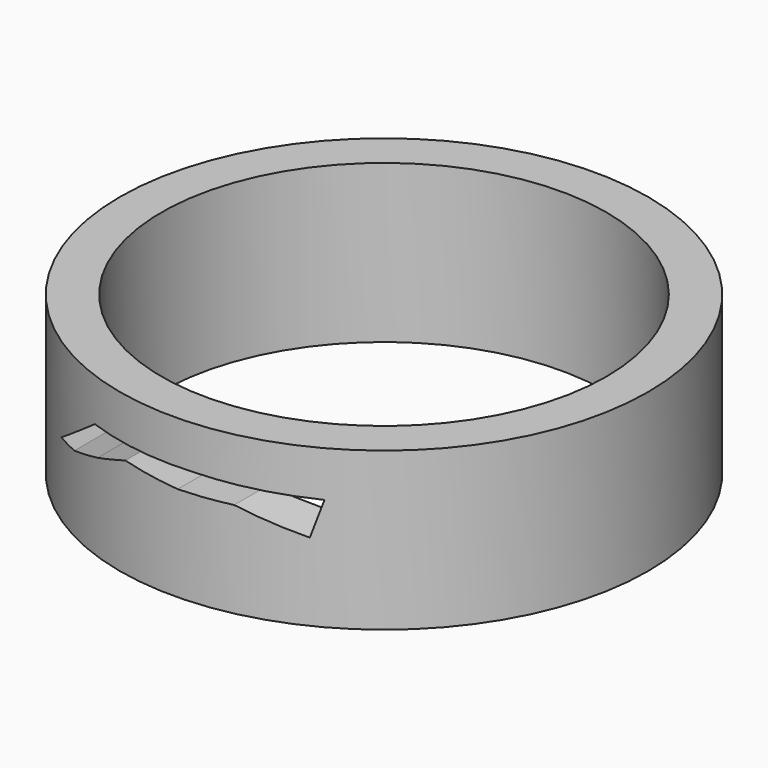
from build123d import *

# Parameters (mm, degrees)
F0_R     = 25.032826
F2_DEPTH = 14.944287
F1_R     = 21.08274
F3_DEPTH = 20.706544
F5_DEPTH = 25.4


with BuildPart() as f2:
    # F0 (on Top) → F2 (new body)
    with BuildSketch(Plane.XY):
        Circle(F0_R)
    extrude(amount=F2_DEPTH)

    # F1 (on face) → F3 (cut)
    with BuildSketch(Plane.XY):
        Circle(F1_R)
    extrude(amount=F3_DEPTH, mode=Mode.SUBTRACT)

    # F4 (on Front) → F5 (cut)
    with BuildSketch(Plane.XZ):
        Polygon((-8.591931, 10.888215), (-13.923068, 6.954562), (-11.59393, 7.161595), (-8.229621, 8.248527), (-4.865311, 9.490732), (0.465825, 9.024907), (5.362451, 9.060643), (10.972824, 7.368632), (11.956234, 10.629423), (1.915064, 10.888215), align=None)
    extrude(amount=F5_DEPTH, mode=Mode.SUBTRACT)


solid = f2.part
